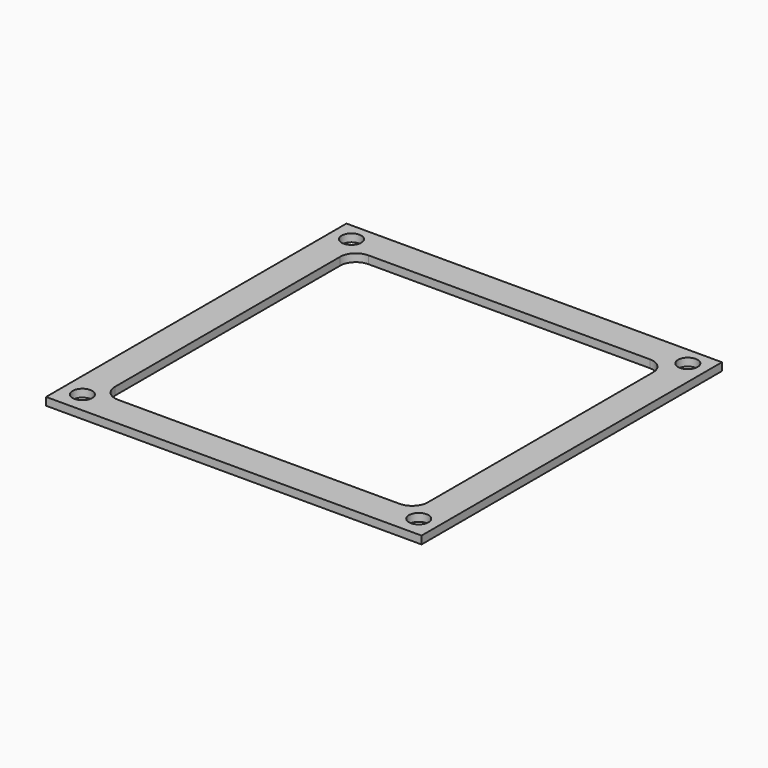
from build123d import *

# Parameters (mm, degrees)
F0_W     = 152.4
F0_H     = 152.4
F0_R     = 3.96875
F1_DEPTH = 3.175


with BuildPart() as f1:
    # F0 (on Top) → F1 (new body)
    with BuildSketch(Plane.XY):
        with Locations((76.2, 76.2)):
            Rectangle(F0_W, F0_H)
        with Locations((7.9375, 8.49987)):
            Circle(F0_R, mode=Mode.SUBTRACT)
        with BuildLine():
            Line((133.35, 12.7), (19.05, 12.7))
            ThreePointArc((19.05, 12.7), (14.559872, 14.559872), (12.7, 19.05))
            Line((12.7, 19.05), (12.7, 133.35))
            ThreePointArc((12.7, 133.35), (14.559872, 137.840128), (19.05, 139.7))
            Line((19.05, 139.7), (133.35, 139.7))
            ThreePointArc((133.35, 139.7), (137.840128, 137.840128), (139.7, 133.35))
            Line((139.7, 133.35), (139.7, 19.05))
            ThreePointArc((139.7, 19.05), (137.840128, 14.559872), (133.35, 12.7))
        make_face(mode=Mode.SUBTRACT)
        with Locations((144.4625, 8.49987)):
            Circle(F0_R, mode=Mode.SUBTRACT)
        with Locations((7.9375, 145.02487)):
            Circle(F0_R, mode=Mode.SUBTRACT)
        with Locations((144.4625, 145.02487)):
            Circle(F0_R, mode=Mode.SUBTRACT)
    extrude(amount=F1_DEPTH)


solid = f1.part
